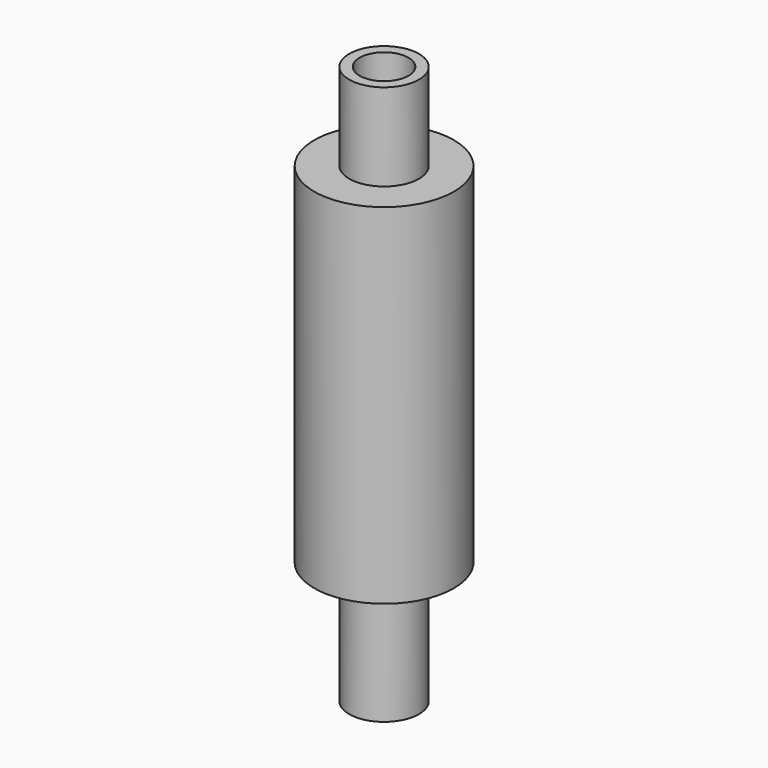
from build123d import *

# Parameters (mm, degrees)
F0_R      = 10
F1_DEPTH  = 35
F0_R_2    = 20
F1_FACE_R = 10
F2_DEPTH  = 100
F3_R      = 10
F4_DEPTH  = 25
F5_R      = 7
F6_DEPTH  = 50
F7_R      = 7
F8_DEPTH  = 50


with BuildPart() as f1:
    # F0 (on Top) → F1 (new body)
    with BuildSketch(Plane.XY):
        Circle(F0_R)
    extrude(amount=-F1_DEPTH)

    # F0 (on Top) + F1_face (on face) → F2 (join)
    with BuildSketch(Plane.XY):
        Circle(F0_R_2)
        Circle(F0_R, mode=Mode.SUBTRACT)
    with BuildSketch(Plane.XY):
        Circle(F1_FACE_R)
    extrude(amount=F2_DEPTH)

    # F3 (on face) → F4 (join)
    with BuildSketch(Plane.XY.offset(100)):
        Circle(F3_R)
    extrude(amount=F4_DEPTH)

    # F5 (on face) → F6 (cut)
    with BuildSketch(Plane.XY.offset(125)):
        Circle(F5_R)
    extrude(amount=-F6_DEPTH, mode=Mode.SUBTRACT)

    # F7 (on face) → F8 (cut)
    with BuildSketch(Plane(origin=(0, 0, -35), x_dir=(1, 0, 0), z_dir=(0, 0, -1))):
        Circle(F7_R)
    extrude(amount=-F8_DEPTH, mode=Mode.SUBTRACT)


solid = f1.part
